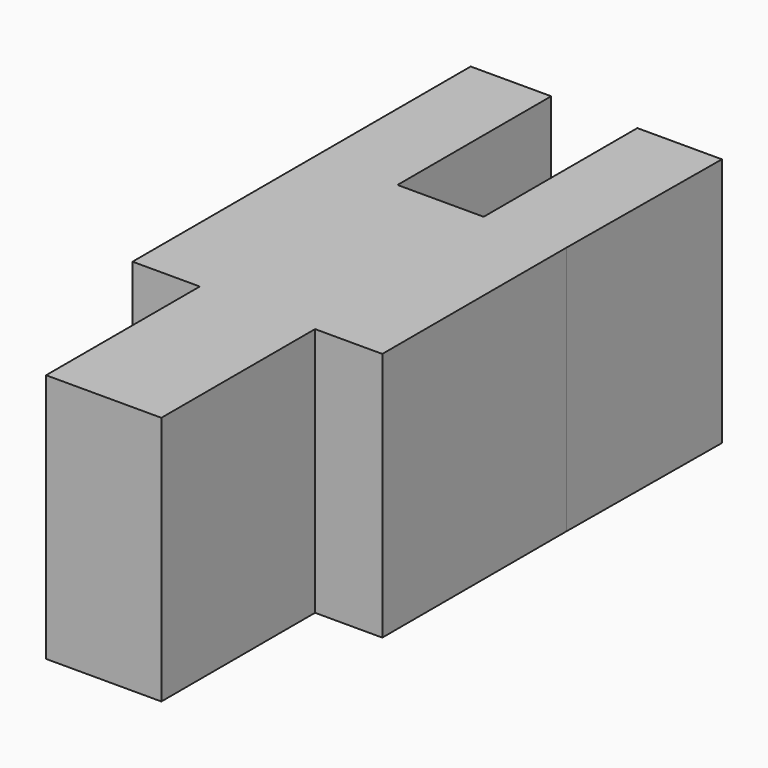
from build123d import *

# Parameters (mm, degrees)
F0_W     = 4.190394
F0_H     = 10
F1_DEPTH = 13


with BuildPart() as f1:
    # F0 (on Top) → F1 (new body)
    with BuildSketch(Plane.XY):
        with Locations((-41.504803, -11.898996)):
            Rectangle(F0_W, F0_H)
        Polygon((-39.409606, -16.898996), (-43.6, -16.898996), (-43.6, -28.898996), (-40.1, -28.898996), (-40.1, -38.898996), (-34.1, -38.898996), (-34.1, -28.898996), (-30.6, -28.898996), (-30.6, -16.898996), (-34.924263, -16.898996), align=None)
        Polygon((-34.924263, -6.8993), (-34.924263, -16.898996), (-30.6, -16.898996), (-30.522014, -6.8993), align=None)
    extrude(amount=F1_DEPTH)


solid = f1.part
